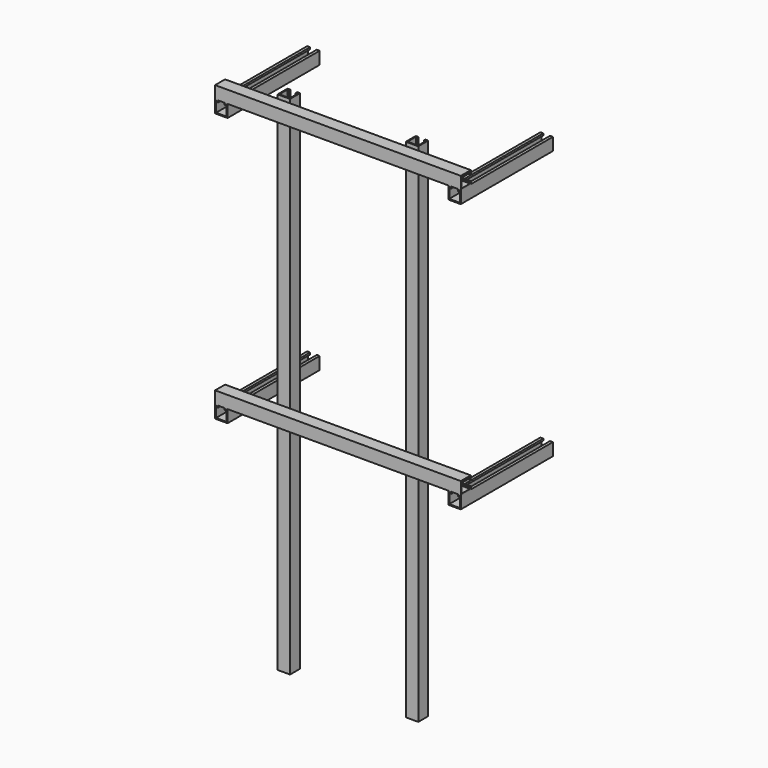
from build123d import *

# Parameters (mm, degrees)
F1_DEPTH = 838.2
F3_DEPTH = 406.4
F5_DEPTH = 381


with BuildPart() as f1:
    # F0 (on Top) → F1 (new body, symmetric)
    with BuildSketch(Plane.XY):
        Polygon((-232.7275, 20.6375), (-232.7275, -20.6375), (-191.4525, -20.6375), (-191.4525, 20.6375), (-200.9775, 20.6375), (-200.9775, 14.2875), (-197.8025, 14.2875), (-197.8025, 17.4625), (-194.6275, 17.4625), (-194.6275, -17.4625), (-229.5525, -17.4625), (-229.5525, 17.4625), (-226.3775, 17.4625), (-226.3775, 14.2875), (-223.2025, 14.2875), (-223.2025, 20.6375), align=None)
        Polygon((197.8025, 17.4625), (197.8025, 14.2875), (200.9775, 14.2875), (200.9775, 20.6375), (191.4525, 20.6375), (191.4525, -20.6375), (232.7275, -20.6375), (232.7275, 20.6375), (223.2025, 20.6375), (223.2025, 14.2875), (226.3775, 14.2875), (226.3775, 17.4625), (229.5525, 17.4625), (229.5525, -17.4625), (194.6275, -17.4625), (194.6275, 17.4625), align=None)
    extrude(amount=F1_DEPTH, both=True)


with BuildPart() as f3:
    # F2 (on Right) → F3 (new body, symmetric)
    with BuildSketch(Plane.YZ):
        Polygon((-20.6375, 825.5), (-61.9125, 825.5), (-61.9125, 784.225), (-20.6375, 784.225), (-20.6375, 793.75), (-26.9875, 793.75), (-26.9875, 790.575), (-23.8125, 790.575), (-23.8125, 787.4), (-58.7375, 787.4), (-58.7375, 822.325), (-23.8125, 822.325), (-23.8125, 819.15), (-26.9875, 819.15), (-26.9875, 815.975), (-20.6375, 815.975), align=None)
        Polygon((-20.6375, -63.5), (-61.9125, -63.5), (-61.9125, -104.775), (-20.6375, -104.775), (-20.6375, -95.25), (-26.9875, -95.25), (-26.9875, -98.425), (-23.8125, -98.425), (-23.8125, -101.6), (-58.7375, -101.6), (-58.7375, -66.675), (-23.8125, -66.675), (-23.8125, -69.85), (-26.9875, -69.85), (-26.9875, -73.025), (-20.6375, -73.025), align=None)
    extrude(amount=F3_DEPTH, both=True)


with BuildPart() as f5:
    # F4 (on face) → F5 (new body)
    with BuildSketch(Plane.XZ.offset(61.9125)):
        Polygon((-400.05, 781.05), (-400.05, 777.875), (-396.875, 777.875), (-396.875, 784.225), (-406.4, 784.225), (-406.4, 742.95), (-365.125, 742.95), (-365.125, 784.225), (-374.65, 784.225), (-374.65, 777.875), (-371.475, 777.875), (-371.475, 781.05), (-368.3, 781.05), (-368.3, 746.125), (-403.225, 746.125), (-403.225, 781.05), align=None)
        Polygon((-396.875, -104.775), (-406.4, -104.775), (-406.4, -146.05), (-365.125, -146.05), (-365.125, -104.775), (-374.65, -104.775), (-374.65, -111.125), (-371.475, -111.125), (-371.475, -107.95), (-368.3, -107.95), (-368.3, -142.875), (-403.225, -142.875), (-403.225, -107.95), (-400.05, -107.95), (-400.05, -111.125), (-396.875, -111.125), align=None)
        Polygon((374.65, 784.225), (365.125, 784.225), (365.125, 742.95), (406.4, 742.95), (406.4, 784.225), (396.875, 784.225), (396.875, 777.875), (400.05, 777.875), (400.05, 781.05), (403.225, 781.05), (403.225, 746.125), (368.3, 746.125), (368.3, 781.05), (371.475, 781.05), (371.475, 777.875), (374.65, 777.875), align=None)
        Polygon((374.65, -104.775), (365.125, -104.775), (365.125, -146.05), (406.4, -146.05), (406.4, -104.775), (396.875, -104.775), (396.875, -111.125), (400.05, -111.125), (400.05, -107.95), (403.225, -107.95), (403.225, -142.875), (368.3, -142.875), (368.3, -107.95), (371.475, -107.95), (371.475, -111.125), (374.65, -111.125), align=None)
    extrude(amount=-F5_DEPTH)


solid = Compound([f1.part, f3.part, f5.part])
